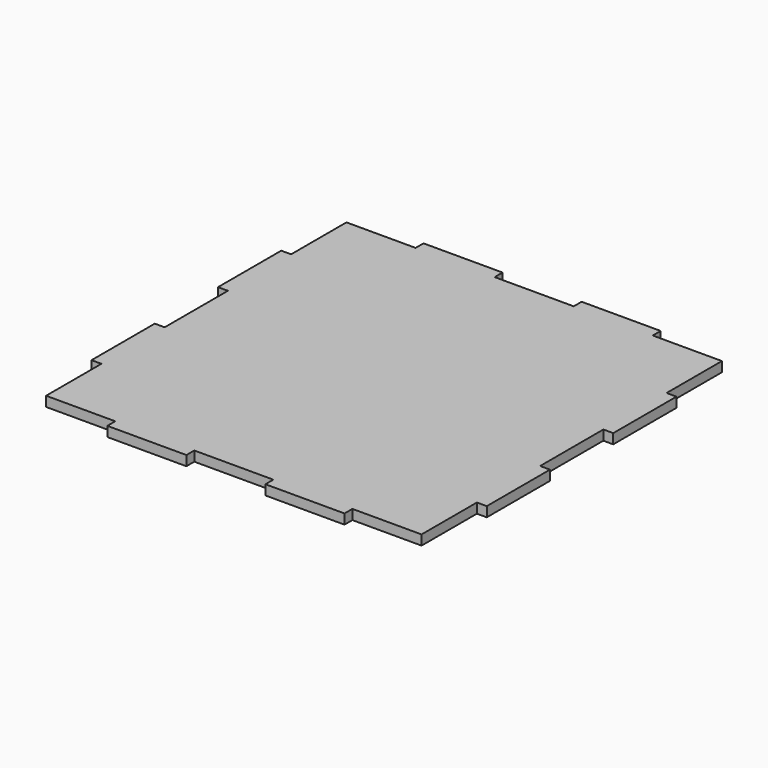
from build123d import *

# Parameters (mm, degrees)
F0_W     = 22.225
F0_H     = 22.225
F0_W_2   = 25.4
F0_H_2   = 25.4
F0_H_3   = 3.175
F0_W_3   = 3.175
F1_DEPTH = 3.175


with BuildPart() as f1:
    # F0 (on Top) → F1 (new body)
    with BuildSketch(Plane.XY):
        with Locations((-49.2125, 49.2125)):
            Rectangle(F0_W, F0_H)
        with Locations((-25.4, 49.2125)):
            Rectangle(F0_W_2, F0_H)
        with Locations((25.4, 49.2125)):
            Rectangle(F0_W_2, F0_H)
        with Locations((49.2125, 49.2125)):
            Rectangle(F0_W, F0_H)
        with Locations((49.2125, 25.4)):
            Rectangle(F0_W, F0_H_2)
        with Locations((25.4, 25.4)):
            Rectangle(F0_W_2, F0_H_2)
        with Locations((0, 25.4)):
            Rectangle(F0_W_2, F0_H_2)
        with Locations((-25.4, 25.4)):
            Rectangle(F0_W_2, F0_H_2)
        with Locations((-49.2125, 25.4)):
            Rectangle(F0_W, F0_H_2)
        with Locations((-49.2125, 0)):
            Rectangle(F0_W, F0_H_2)
        with Locations((-25.4, 0)):
            Rectangle(F0_W_2, F0_H_2)
        Rectangle(F0_W_2, F0_H_2)
        with Locations((25.4, 0)):
            Rectangle(F0_W_2, F0_H_2)
        with Locations((49.2125, 0)):
            Rectangle(F0_W, F0_H_2)
        with Locations((49.2125, -25.4)):
            Rectangle(F0_W, F0_H_2)
        with Locations((25.4, -25.4)):
            Rectangle(F0_W_2, F0_H_2)
        with Locations((0, -25.4)):
            Rectangle(F0_W_2, F0_H_2)
        with Locations((-25.4, -25.4)):
            Rectangle(F0_W_2, F0_H_2)
        with Locations((-49.2125, -25.4)):
            Rectangle(F0_W, F0_H_2)
        with Locations((-49.2125, -49.2125)):
            Rectangle(F0_W, F0_H)
        with Locations((-25.4, -49.2125)):
            Rectangle(F0_W_2, F0_H)
        with Locations((25.4, -49.2125)):
            Rectangle(F0_W_2, F0_H)
        with Locations((49.2125, -49.2125)):
            Rectangle(F0_W, F0_H)
        with Locations((0, 49.2125)):
            Rectangle(F0_W_2, F0_H)
        with Locations((0, -49.2125)):
            Rectangle(F0_W_2, F0_H)
        with Locations((-25.4, -61.9125)):
            Rectangle(F0_W_2, F0_H_3)
        with Locations((-61.9125, -25.4)):
            Rectangle(F0_W_3, F0_H_2)
        with Locations((-61.9125, 25.4)):
            Rectangle(F0_W_3, F0_H_2)
        with Locations((-25.4, 61.9125)):
            Rectangle(F0_W_2, F0_H_3)
        with Locations((25.4, 61.9125)):
            Rectangle(F0_W_2, F0_H_3)
        with Locations((61.9125, 25.4)):
            Rectangle(F0_W_3, F0_H_2)
        with Locations((61.9125, -25.4)):
            Rectangle(F0_W_3, F0_H_2)
        with Locations((25.4, -61.9125)):
            Rectangle(F0_W_2, F0_H_3)
    extrude(amount=F1_DEPTH)


solid = f1.part
